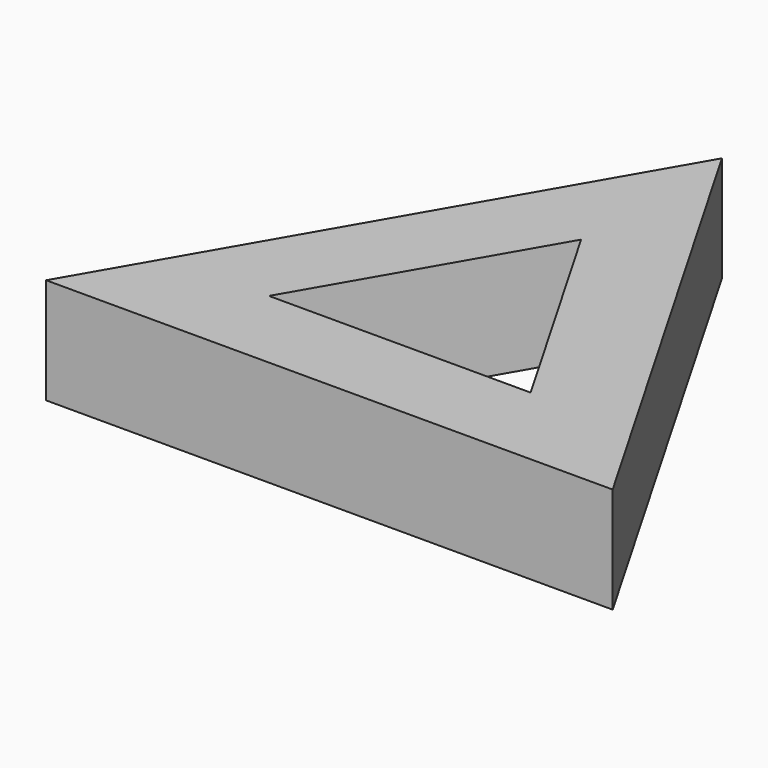
from build123d import *

# Parameters (mm, degrees)
F1_DEPTH = 7


with BuildPart() as f1:
    # F0 (on Top) → F1 (new body, symmetric)
    with BuildSketch(Plane.XY):
        Polygon((0, 43.30127), (-37.5, -21.650635), (37.5, -21.650635), align=None)
        Polygon((0, 20), (17.320508, -10), (-17.320508, -10), align=None, mode=Mode.SUBTRACT)
    extrude(amount=F1_DEPTH, both=True)


solid = f1.part
